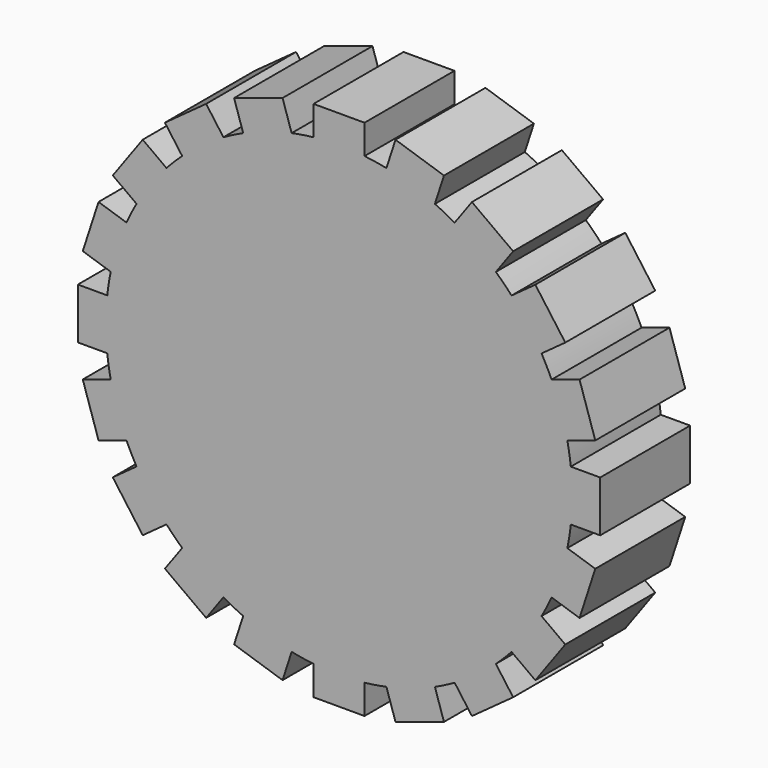
from build123d import *

# Parameters (mm, degrees)
F1_DEPTH = 25.4


with BuildPart() as f1:
    # F0 (on Front) → F1 (new body)
    with BuildSketch(Plane.XZ):
        with BuildLine():
            Line((5.7561155409, 52.3600886255), (5.7561155409, 59.0001791716))
            Line((5.7561155409, 59.0001791716), (-5.7561155409, 59.0001791716))
            Line((-5.7561155409, 59.0001791716), (-5.7561155409, 52.3600886255))
            ThreePointArc((-5.7561155409, 52.3600886255), (0, 52.6755327167), (5.7561155409, 52.3600886255))
        make_face()
        with BuildLine():
            ThreePointArc((10.7057660186, 51.5761410048), (8.2402687813, 52.027009499), (5.7561155409, 52.3600886255))
            Line((5.7561155409, 52.3600886255), (5.7561155409, 46.3508862619))
            Line((5.7561155409, 46.3508862619), (-5.7561155409, 46.3508862619))
            Line((-5.7561155409, 46.3508862619), (-5.7561155409, 52.3600886255))
            ThreePointArc((-5.7561155409, 52.3600886255), (-8.2402687813, 52.027009499), (-10.7057660186, 51.5761410048))
            Line((-10.7057660186, 51.5761410048), (-8.8488203656, 45.8610499392))
            Line((-8.8488203656, 45.8610499392), (-19.797602753, 42.3035748917))
            Line((-19.797602753, 42.3035748917), (-21.6545484059, 48.0186659574))
            ThreePointArc((-21.6545484059, 48.0186659574), (-23.9141914221, 46.9342433157), (-26.1196926087, 45.7435613504))
            ThreePointArc((-26.1196926087, 45.7435613504), (-30.9619012875, 42.6154011556), (-35.433283197, 38.9768416996))
            ThreePointArc((-35.433283197, 38.9768416996), (-37.2472263866, 37.2472263866), (-38.9768416996, 35.433283197))
            ThreePointArc((-38.9768416996, 35.433283197), (-42.6154011556, 30.9619012875), (-45.7435613504, 26.1196926087))
            ThreePointArc((-45.7435613504, 26.1196926087), (-46.9342433157, 23.9141914221), (-48.0186659574, 21.6545484059))
            ThreePointArc((-48.0186659574, 21.6545484059), (-50.0974086396, 16.2776347972), (-51.5761410048, 10.7057660186))
            ThreePointArc((-51.5761410048, 10.7057660186), (-52.027009499, 8.2402687813), (-52.3600886255, 5.7561155409))
            ThreePointArc((-52.3600886255, 5.7561155409), (-52.6755327167, 0), (-52.3600886255, -5.7561155409))
            ThreePointArc((-52.3600886255, -5.7561155409), (-52.027009499, -8.2402687813), (-51.5761410048, -10.7057660186))
            ThreePointArc((-51.5761410048, -10.7057660186), (-50.0974086396, -16.2776347972), (-48.0186659574, -21.6545484059))
            ThreePointArc((-48.0186659574, -21.6545484059), (-46.9342433157, -23.9141914221), (-45.7435613504, -26.1196926087))
            Line((-45.7435613504, -26.1196926087), (-40.8820145156, -22.5875720813))
            Line((-40.8820145156, -22.5875720813), (-34.1152948648, -31.9011626696))
            Line((-34.1152948648, -31.9011626696), (-38.9768416996, -35.433283197))
            ThreePointArc((-38.9768416996, -35.433283197), (-37.2472263866, -37.2472263866), (-35.433283197, -38.9768416996))
            Line((-35.433283197, -38.9768416996), (-31.9011626696, -34.1152948648))
            Line((-31.9011626696, -34.1152948648), (-22.5875720813, -40.8820145156))
            Line((-22.5875720813, -40.8820145156), (-26.1196926087, -45.7435613504))
            ThreePointArc((-26.1196926087, -45.7435613504), (-23.9141914221, -46.9342433157), (-21.6545484059, -48.0186659574))
            Line((-21.6545484059, -48.0186659574), (-19.797602753, -42.3035748917))
            Line((-19.797602753, -42.3035748917), (-8.8488203656, -45.8610499392))
            Line((-8.8488203656, -45.8610499392), (-10.7057660186, -51.5761410048))
            ThreePointArc((-10.7057660186, -51.5761410048), (-8.2402687813, -52.027009499), (-5.7561155409, -52.3600886255))
            Line((-5.7561155409, -52.3600886255), (-5.7561155409, -46.3508862619))
            Line((-5.7561155409, -46.3508862619), (5.7561155409, -46.3508862619))
            Line((5.7561155409, -46.3508862619), (5.7561155409, -52.3600886255))
            ThreePointArc((5.7561155409, -52.3600886255), (8.2402687813, -52.027009499), (10.7057660186, -51.5761410048))
            Line((10.7057660186, -51.5761410048), (8.8488203656, -45.8610499392))
            Line((8.8488203656, -45.8610499392), (19.797602753, -42.3035748917))
            Line((19.797602753, -42.3035748917), (21.6545484059, -48.0186659574))
            ThreePointArc((21.6545484059, -48.0186659574), (23.9141914221, -46.9342433157), (26.1196926087, -45.7435613504))
            Line((26.1196926087, -45.7435613504), (22.5875720813, -40.8820145156))
            Line((22.5875720813, -40.8820145156), (31.9011626696, -34.1152948648))
            Line((31.9011626696, -34.1152948648), (35.433283197, -38.9768416996))
            ThreePointArc((35.433283197, -38.9768416996), (37.2472263866, -37.2472263866), (38.9768416996, -35.433283197))
            Line((38.9768416996, -35.433283197), (34.1152948648, -31.9011626696))
            Line((34.1152948648, -31.9011626696), (40.8820145156, -22.5875720813))
            Line((40.8820145156, -22.5875720813), (45.7435613504, -26.1196926087))
            ThreePointArc((45.7435613504, -26.1196926087), (46.9342433157, -23.9141914221), (48.0186659574, -21.6545484059))
            Line((48.0186659574, -21.6545484059), (42.3035748917, -19.797602753))
            Line((42.3035748917, -19.797602753), (45.8610499392, -8.8488203656))
            Line((45.8610499392, -8.8488203656), (51.5761410048, -10.7057660186))
            ThreePointArc((51.5761410048, -10.7057660186), (52.027009499, -8.2402687813), (52.3600886255, -5.7561155409))
            Line((52.3600886255, -5.7561155409), (46.3508862619, -5.7561155409))
            Line((46.3508862619, -5.7561155409), (46.3508862619, 5.7561155409))
            Line((46.3508862619, 5.7561155409), (52.3600886255, 5.7561155409))
            ThreePointArc((52.3600886255, 5.7561155409), (52.027009499, 8.2402687813), (51.5761410048, 10.7057660186))
            Line((51.5761410048, 10.7057660186), (45.8610499392, 8.8488203656))
            Line((45.8610499392, 8.8488203656), (42.3035748917, 19.797602753))
            Line((42.3035748917, 19.797602753), (48.0186659574, 21.6545484059))
            ThreePointArc((48.0186659574, 21.6545484059), (46.9342433157, 23.9141914221), (45.7435613504, 26.1196926087))
            Line((45.7435613504, 26.1196926087), (40.8820145156, 22.5875720813))
            Line((40.8820145156, 22.5875720813), (34.1152948648, 31.9011626696))
            Line((34.1152948648, 31.9011626696), (38.9768416996, 35.433283197))
            ThreePointArc((38.9768416996, 35.433283197), (37.2472263866, 37.2472263866), (35.433283197, 38.9768416996))
            Line((35.433283197, 38.9768416996), (31.9011626696, 34.1152948648))
            Line((31.9011626696, 34.1152948648), (22.5875720813, 40.8820145156))
            Line((22.5875720813, 40.8820145156), (26.1196926087, 45.7435613504))
            ThreePointArc((26.1196926087, 45.7435613504), (23.9141914221, 46.9342433157), (21.6545484059, 48.0186659574))
            Line((21.6545484059, 48.0186659574), (19.797602753, 42.3035748917))
            Line((19.797602753, 42.3035748917), (8.8488203656, 45.8610499392))
            Line((8.8488203656, 45.8610499392), (10.7057660186, 51.5761410048))
        make_face()
        with BuildLine():
            Line((5.7561155409, 46.3508862619), (5.7561155409, 52.3600886255))
            ThreePointArc((5.7561155409, 52.3600886255), (0, 52.6755327167), (-5.7561155409, 52.3600886255))
            Line((-5.7561155409, 52.3600886255), (-5.7561155409, 46.3508862619))
            Line((-5.7561155409, 46.3508862619), (5.7561155409, 46.3508862619))
        make_face()
        with BuildLine():
            ThreePointArc((21.6545484059, 48.0186659574), (16.2776347972, 50.0974086396), (10.7057660186, 51.5761410048))
            Line((10.7057660186, 51.5761410048), (8.8488203656, 45.8610499392))
            Line((8.8488203656, 45.8610499392), (19.797602753, 42.3035748917))
            Line((19.797602753, 42.3035748917), (21.6545484059, 48.0186659574))
        make_face()
        with BuildLine():
            Line((12.7576668415, 57.8912423874), (10.7057660186, 51.5761410048))
            ThreePointArc((10.7057660186, 51.5761410048), (16.2776347972, 50.0974086396), (21.6545484059, 48.0186659574))
            Line((21.6545484059, 48.0186659574), (23.7064492289, 54.33376734))
            Line((23.7064492289, 54.33376734), (12.7576668415, 57.8912423874))
        make_face()
        with BuildLine():
            ThreePointArc((-21.6545484059, 48.0186659574), (-16.2776347972, 50.0974086396), (-10.7057660186, 51.5761410048))
            Line((-10.7057660186, 51.5761410048), (-12.7576668415, 57.8912423874))
            Line((-12.7576668415, 57.8912423874), (-23.7064492289, 54.33376734))
            Line((-23.7064492289, 54.33376734), (-21.6545484059, 48.0186659574))
        make_face()
        with BuildLine():
            Line((-8.8488203656, 45.8610499392), (-10.7057660186, 51.5761410048))
            ThreePointArc((-10.7057660186, 51.5761410048), (-16.2776347972, 50.0974086396), (-21.6545484059, 48.0186659574))
            Line((-21.6545484059, 48.0186659574), (-19.797602753, 42.3035748917))
            Line((-19.797602753, 42.3035748917), (-8.8488203656, 45.8610499392))
        make_face()
        with BuildLine():
            ThreePointArc((35.433283197, 38.9768416996), (30.9619012875, 42.6154011556), (26.1196926087, 45.7435613504))
            Line((26.1196926087, 45.7435613504), (22.5875720813, 40.8820145156))
            Line((22.5875720813, 40.8820145156), (31.9011626696, 34.1152948648))
            Line((31.9011626696, 34.1152948648), (35.433283197, 38.9768416996))
        make_face()
        with BuildLine():
            Line((30.0226399055, 51.1155074464), (26.1196926087, 45.7435613504))
            ThreePointArc((26.1196926087, 45.7435613504), (30.9619012875, 42.6154011556), (35.433283197, 38.9768416996))
            Line((35.433283197, 38.9768416996), (39.3362304938, 44.3487877956))
            Line((39.3362304938, 44.3487877956), (30.0226399055, 51.1155074464))
        make_face()
        with BuildLine():
            ThreePointArc((-35.433283197, 38.9768416996), (-30.9619012875, 42.6154011556), (-26.1196926087, 45.7435613504))
            Line((-26.1196926087, 45.7435613504), (-30.0226399055, 51.1155074464))
            Line((-30.0226399055, 51.1155074464), (-39.3362304938, 44.3487877956))
            Line((-39.3362304938, 44.3487877956), (-35.433283197, 38.9768416996))
        make_face()
        with BuildLine():
            ThreePointArc((45.7435613504, 26.1196926087), (42.6154011556, 30.9619012875), (38.9768416996, 35.433283197))
            Line((38.9768416996, 35.433283197), (34.1152948648, 31.9011626696))
            Line((34.1152948648, 31.9011626696), (40.8820145156, 22.5875720813))
            Line((40.8820145156, 22.5875720813), (45.7435613504, 26.1196926087))
        make_face()
        with BuildLine():
            Line((44.3487877956, 39.3362304938), (38.9768416996, 35.433283197))
            ThreePointArc((38.9768416996, 35.433283197), (42.6154011556, 30.9619012875), (45.7435613504, 26.1196926087))
            Line((45.7435613504, 26.1196926087), (51.1155074464, 30.0226399055))
            Line((51.1155074464, 30.0226399055), (44.3487877956, 39.3362304938))
        make_face()
        with BuildLine():
            ThreePointArc((-45.7435613504, 26.1196926087), (-42.6154011556, 30.9619012875), (-38.9768416996, 35.433283197))
            Line((-38.9768416996, 35.433283197), (-44.3487877956, 39.3362304938))
            Line((-44.3487877956, 39.3362304938), (-51.1155074464, 30.0226399055))
            Line((-51.1155074464, 30.0226399055), (-45.7435613504, 26.1196926087))
        make_face()
        with BuildLine():
            ThreePointArc((51.5761410048, 10.7057660186), (50.0974086396, 16.2776347972), (48.0186659574, 21.6545484059))
            Line((48.0186659574, 21.6545484059), (42.3035748917, 19.797602753))
            Line((42.3035748917, 19.797602753), (45.8610499392, 8.8488203656))
            Line((45.8610499392, 8.8488203656), (51.5761410048, 10.7057660186))
        make_face()
        with BuildLine():
            Line((54.33376734, 23.7064492289), (48.0186659574, 21.6545484059))
            ThreePointArc((48.0186659574, 21.6545484059), (50.0974086396, 16.2776347972), (51.5761410048, 10.7057660186))
            Line((51.5761410048, 10.7057660186), (57.8912423874, 12.7576668415))
            Line((57.8912423874, 12.7576668415), (54.33376734, 23.7064492289))
        make_face()
        with BuildLine():
            ThreePointArc((-51.5761410048, 10.7057660186), (-50.0974086396, 16.2776347972), (-48.0186659574, 21.6545484059))
            Line((-48.0186659574, 21.6545484059), (-54.33376734, 23.7064492289))
            Line((-54.33376734, 23.7064492289), (-57.8912423874, 12.7576668415))
            Line((-57.8912423874, 12.7576668415), (-51.5761410048, 10.7057660186))
        make_face()
        with BuildLine():
            ThreePointArc((52.6755327167, 0), (52.5966125736, 2.8823762373), (52.3600886255, 5.7561155409))
            Line((52.3600886255, 5.7561155409), (46.3508862619, 5.7561155409))
            Line((46.3508862619, 5.7561155409), (46.3508862619, -5.7561155409))
            Line((46.3508862619, -5.7561155409), (52.3600886255, -5.7561155409))
            ThreePointArc((52.3600886255, -5.7561155409), (52.5966125736, -2.8823762373), (52.6755327167, 0))
        make_face()
        with BuildLine():
            Line((59.0001791716, 5.7561155409), (52.3600886255, 5.7561155409))
            ThreePointArc((52.3600886255, 5.7561155409), (52.5966125736, 2.8823762373), (52.6755327167, 0))
            ThreePointArc((52.6755327167, 0), (52.5966125736, -2.8823762373), (52.3600886255, -5.7561155409))
            Line((52.3600886255, -5.7561155409), (59.0001791716, -5.7561155409))
            Line((59.0001791716, -5.7561155409), (59.0001791716, 5.7561155409))
        make_face()
        with BuildLine():
            ThreePointArc((-52.3600886255, -5.7561155409), (-52.6755327167, 0), (-52.3600886255, 5.7561155409))
            Line((-52.3600886255, 5.7561155409), (-59.0001791716, 5.7561155409))
            Line((-59.0001791716, 5.7561155409), (-59.0001791716, -5.7561155409))
            Line((-59.0001791716, -5.7561155409), (-52.3600886255, -5.7561155409))
        make_face()
        with BuildLine():
            ThreePointArc((-48.0186659574, -21.6545484059), (-50.0974086396, -16.2776347972), (-51.5761410048, -10.7057660186))
            Line((-51.5761410048, -10.7057660186), (-57.8912423874, -12.7576668415))
            Line((-57.8912423874, -12.7576668415), (-54.33376734, -23.7064492289))
            Line((-54.33376734, -23.7064492289), (-48.0186659574, -21.6545484059))
        make_face()
        with BuildLine():
            ThreePointArc((48.0186659574, -21.6545484059), (50.0974086396, -16.2776347972), (51.5761410048, -10.7057660186))
            Line((51.5761410048, -10.7057660186), (45.8610499392, -8.8488203656))
            Line((45.8610499392, -8.8488203656), (42.3035748917, -19.797602753))
            Line((42.3035748917, -19.797602753), (48.0186659574, -21.6545484059))
        make_face()
        with BuildLine():
            Line((57.8912423874, -12.7576668415), (51.5761410048, -10.7057660186))
            ThreePointArc((51.5761410048, -10.7057660186), (50.0974086396, -16.2776347972), (48.0186659574, -21.6545484059))
            Line((48.0186659574, -21.6545484059), (54.33376734, -23.7064492289))
            Line((54.33376734, -23.7064492289), (57.8912423874, -12.7576668415))
        make_face()
        with BuildLine():
            ThreePointArc((-38.9768416996, -35.433283197), (-42.6154011556, -30.9619012875), (-45.7435613504, -26.1196926087))
            Line((-45.7435613504, -26.1196926087), (-51.1155074464, -30.0226399055))
            Line((-51.1155074464, -30.0226399055), (-44.3487877956, -39.3362304938))
            Line((-44.3487877956, -39.3362304938), (-38.9768416996, -35.433283197))
        make_face()
        with BuildLine():
            Line((-40.8820145156, -22.5875720813), (-45.7435613504, -26.1196926087))
            ThreePointArc((-45.7435613504, -26.1196926087), (-42.6154011556, -30.9619012875), (-38.9768416996, -35.433283197))
            Line((-38.9768416996, -35.433283197), (-34.1152948648, -31.9011626696))
            Line((-34.1152948648, -31.9011626696), (-40.8820145156, -22.5875720813))
        make_face()
        with BuildLine():
            ThreePointArc((38.9768416996, -35.433283197), (42.6154011556, -30.9619012875), (45.7435613504, -26.1196926087))
            Line((45.7435613504, -26.1196926087), (40.8820145156, -22.5875720813))
            Line((40.8820145156, -22.5875720813), (34.1152948648, -31.9011626696))
            Line((34.1152948648, -31.9011626696), (38.9768416996, -35.433283197))
        make_face()
        with BuildLine():
            Line((51.1155074464, -30.0226399055), (45.7435613504, -26.1196926087))
            ThreePointArc((45.7435613504, -26.1196926087), (42.6154011556, -30.9619012875), (38.9768416996, -35.433283197))
            Line((38.9768416996, -35.433283197), (44.3487877956, -39.3362304938))
            Line((44.3487877956, -39.3362304938), (51.1155074464, -30.0226399055))
        make_face()
        with BuildLine():
            ThreePointArc((-26.1196926087, -45.7435613504), (-30.9619012875, -42.6154011556), (-35.433283197, -38.9768416996))
            Line((-35.433283197, -38.9768416996), (-39.3362304938, -44.3487877956))
            Line((-39.3362304938, -44.3487877956), (-30.0226399055, -51.1155074464))
            Line((-30.0226399055, -51.1155074464), (-26.1196926087, -45.7435613504))
        make_face()
        with BuildLine():
            Line((-31.9011626696, -34.1152948648), (-35.433283197, -38.9768416996))
            ThreePointArc((-35.433283197, -38.9768416996), (-30.9619012875, -42.6154011556), (-26.1196926087, -45.7435613504))
            Line((-26.1196926087, -45.7435613504), (-22.5875720813, -40.8820145156))
            Line((-22.5875720813, -40.8820145156), (-31.9011626696, -34.1152948648))
        make_face()
        with BuildLine():
            ThreePointArc((26.1196926087, -45.7435613504), (30.9619012875, -42.6154011556), (35.433283197, -38.9768416996))
            Line((35.433283197, -38.9768416996), (31.9011626696, -34.1152948648))
            Line((31.9011626696, -34.1152948648), (22.5875720813, -40.8820145156))
            Line((22.5875720813, -40.8820145156), (26.1196926087, -45.7435613504))
        make_face()
        with BuildLine():
            Line((39.3362304938, -44.3487877956), (35.433283197, -38.9768416996))
            ThreePointArc((35.433283197, -38.9768416996), (30.9619012875, -42.6154011556), (26.1196926087, -45.7435613504))
            Line((26.1196926087, -45.7435613504), (30.0226399055, -51.1155074464))
            Line((30.0226399055, -51.1155074464), (39.3362304938, -44.3487877956))
        make_face()
        with BuildLine():
            ThreePointArc((-10.7057660186, -51.5761410048), (-16.2776347972, -50.0974086396), (-21.6545484059, -48.0186659574))
            Line((-21.6545484059, -48.0186659574), (-23.7064492289, -54.33376734))
            Line((-23.7064492289, -54.33376734), (-12.7576668415, -57.8912423874))
            Line((-12.7576668415, -57.8912423874), (-10.7057660186, -51.5761410048))
        make_face()
        with BuildLine():
            Line((-19.797602753, -42.3035748917), (-21.6545484059, -48.0186659574))
            ThreePointArc((-21.6545484059, -48.0186659574), (-16.2776347972, -50.0974086396), (-10.7057660186, -51.5761410048))
            Line((-10.7057660186, -51.5761410048), (-8.8488203656, -45.8610499392))
            Line((-8.8488203656, -45.8610499392), (-19.797602753, -42.3035748917))
        make_face()
        with BuildLine():
            ThreePointArc((10.7057660186, -51.5761410048), (16.2776347972, -50.0974086396), (21.6545484059, -48.0186659574))
            Line((21.6545484059, -48.0186659574), (19.797602753, -42.3035748917))
            Line((19.797602753, -42.3035748917), (8.8488203656, -45.8610499392))
            Line((8.8488203656, -45.8610499392), (10.7057660186, -51.5761410048))
        make_face()
        with BuildLine():
            Line((23.7064492289, -54.33376734), (21.6545484059, -48.0186659574))
            ThreePointArc((21.6545484059, -48.0186659574), (16.2776347972, -50.0974086396), (10.7057660186, -51.5761410048))
            Line((10.7057660186, -51.5761410048), (12.7576668415, -57.8912423874))
            Line((12.7576668415, -57.8912423874), (23.7064492289, -54.33376734))
        make_face()
        with BuildLine():
            ThreePointArc((5.7561155409, -52.3600886255), (0, -52.6755327167), (-5.7561155409, -52.3600886255))
            Line((-5.7561155409, -52.3600886255), (-5.7561155409, -59.0001791716))
            Line((-5.7561155409, -59.0001791716), (5.7561155409, -59.0001791716))
            Line((5.7561155409, -59.0001791716), (5.7561155409, -52.3600886255))
        make_face()
        with BuildLine():
            Line((-5.7561155409, -46.3508862619), (-5.7561155409, -52.3600886255))
            ThreePointArc((-5.7561155409, -52.3600886255), (0, -52.6755327167), (5.7561155409, -52.3600886255))
            Line((5.7561155409, -52.3600886255), (5.7561155409, -46.3508862619))
            Line((5.7561155409, -46.3508862619), (-5.7561155409, -46.3508862619))
        make_face()
    extrude(amount=F1_DEPTH)


solid = f1.part
